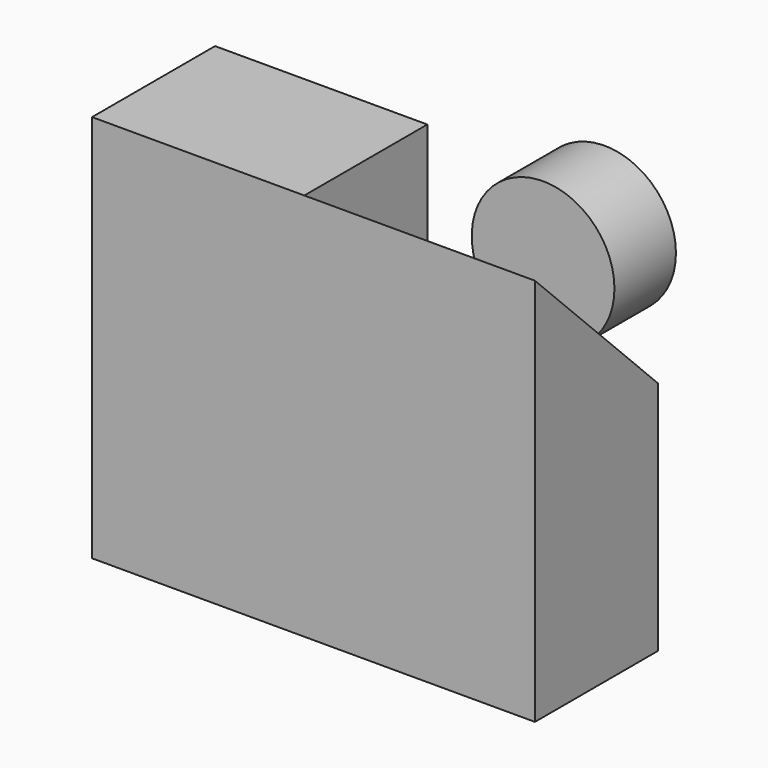
from build123d import *

# Parameters (mm, degrees)
F0_W     = 144.018009305
F0_H     = 126.3136602938
F1_DEPTH = 50
F3_DEPTH = 75
F4_R     = 23.2012812913
F5_DEPTH = 25


with BuildPart() as f1:
    # F0 (on Front) → F1 (new body)
    with BuildSketch(Plane.XZ):
        with Locations((1.4469921589, -9.7884591669)):
            Rectangle(F0_W, F0_H)
    extrude(amount=F1_DEPTH)

    # F2 (on face) → F3 (cut)
    with BuildSketch(Plane.YZ.offset(73.4559968114)):
        Polygon((0, 53.36837098), (-50, 53.36837098), (0, 3.6792913452), align=None)
    extrude(amount=-F3_DEPTH, mode=Mode.SUBTRACT)

    # F4 (on face) → F5 (join)
    with BuildSketch(Plane.XZ):
        with Locations((36.1069515347, 26.1881500483)):
            Circle(F4_R)
    extrude(amount=-F5_DEPTH)


solid = f1.part
